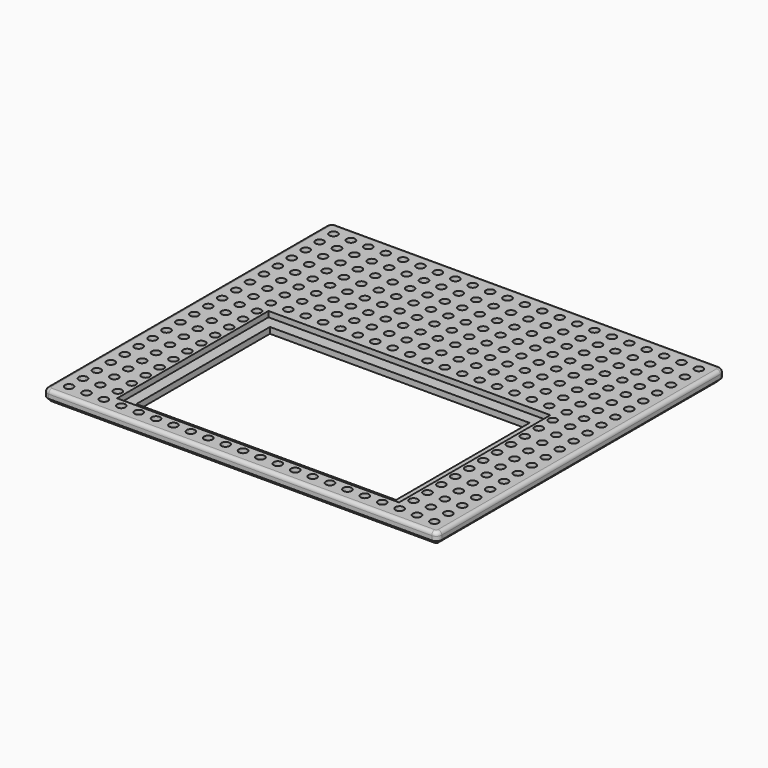
from build123d import *

# Parameters (mm, degrees)
F0_W      = 53.975
F0_H      = 49.2125
F1_DEPTH  = 1.5875
F2_R      = 0.5715
F3_DEPTH  = 0.762
F4_R      = 0.762
F5_R      = 0.508
F6_SIZE   = 0.508
F7_W      = 38.608
F7_H      = 25.908
F8_DEPTH  = 0.762
F9_W      = 35.56
F9_H      = 22.86
F10_DEPTH = 25.4


with BuildPart() as f1:
    # F0 (on Top) → F1 (new body)
    with BuildSketch(Plane.XY):
        with Locations((0, 8.73125)):
            Rectangle(F0_W, F0_H)
    extrude(amount=F1_DEPTH)

    # F2 (on face) → F3 (cut)
    with BuildSketch(Plane.XY.offset(1.5875)):
        with Locations((-25.01646, -13.9065)):
            Circle(F2_R)
        with Locations((-25.01646, -11.52398)):
            Circle(F2_R)
        with Locations((-25.01646, -9.14146)):
            Circle(F2_R)
        with Locations((-25.01646, -6.75894)):
            Circle(F2_R)
        with Locations((-25.01646, -4.37642)):
            Circle(F2_R)
        with Locations((-25.01646, -1.9939)):
            Circle(F2_R)
        with Locations((-25.01646, 0.38862)):
            Circle(F2_R)
        with Locations((-25.01646, 2.77114)):
            Circle(F2_R)
        with Locations((-25.01646, 5.15366)):
            Circle(F2_R)
        with Locations((-25.01646, 7.53618)):
            Circle(F2_R)
        with Locations((-25.01646, 9.9187)):
            Circle(F2_R)
        with Locations((-25.01646, 12.30122)):
            Circle(F2_R)
        with Locations((-22.63394, -13.9065)):
            Circle(F2_R)
        with Locations((-22.63394, -11.52398)):
            Circle(F2_R)
        with Locations((-22.63394, -9.14146)):
            Circle(F2_R)
        with Locations((-22.63394, -6.75894)):
            Circle(F2_R)
        with Locations((-22.63394, -4.37642)):
            Circle(F2_R)
        with Locations((-22.63394, -1.9939)):
            Circle(F2_R)
        with Locations((-22.63394, 0.38862)):
            Circle(F2_R)
        with Locations((-22.63394, 2.77114)):
            Circle(F2_R)
        with Locations((-22.63394, 5.15366)):
            Circle(F2_R)
        with Locations((-22.63394, 7.53618)):
            Circle(F2_R)
        with Locations((-22.63394, 9.9187)):
            Circle(F2_R)
        with Locations((-22.63394, 12.30122)):
            Circle(F2_R)
        with Locations((-20.25142, -13.9065)):
            Circle(F2_R)
        with Locations((-20.25142, -11.52398)):
            Circle(F2_R)
        with Locations((-20.25142, -9.14146)):
            Circle(F2_R)
        with Locations((-20.25142, -6.75894)):
            Circle(F2_R)
        with Locations((-20.25142, -4.37642)):
            Circle(F2_R)
        with Locations((-20.25142, -1.9939)):
            Circle(F2_R)
        with Locations((-20.25142, 0.38862)):
            Circle(F2_R)
        with Locations((-20.25142, 2.77114)):
            Circle(F2_R)
        with Locations((-20.25142, 5.15366)):
            Circle(F2_R)
        with Locations((-20.25142, 7.53618)):
            Circle(F2_R)
        with Locations((-20.25142, 9.9187)):
            Circle(F2_R)
        with Locations((-20.25142, 12.30122)):
            Circle(F2_R)
        with Locations((-17.8689, -13.9065)):
            Circle(F2_R)
        with Locations((-17.8689, -11.52398)):
            Circle(F2_R)
        with Locations((-17.8689, -9.14146)):
            Circle(F2_R)
        with Locations((-17.8689, -6.75894)):
            Circle(F2_R)
        with Locations((-17.8689, -4.37642)):
            Circle(F2_R)
        with Locations((-17.8689, -1.9939)):
            Circle(F2_R)
        with Locations((-17.8689, 0.38862)):
            Circle(F2_R)
        with Locations((-17.8689, 2.77114)):
            Circle(F2_R)
        with Locations((-17.8689, 5.15366)):
            Circle(F2_R)
        with Locations((-17.8689, 7.53618)):
            Circle(F2_R)
        with Locations((-17.8689, 9.9187)):
            Circle(F2_R)
        with Locations((-17.8689, 12.30122)):
            Circle(F2_R)
        with Locations((-15.48638, -13.9065)):
            Circle(F2_R)
        with Locations((-15.48638, -11.52398)):
            Circle(F2_R)
        with Locations((-15.48638, -9.14146)):
            Circle(F2_R)
        with Locations((-15.48638, -6.75894)):
            Circle(F2_R)
        with Locations((-15.48638, -4.37642)):
            Circle(F2_R)
        with Locations((-15.48638, -1.9939)):
            Circle(F2_R)
        with Locations((-15.48638, 0.38862)):
            Circle(F2_R)
        with Locations((-15.48638, 2.77114)):
            Circle(F2_R)
        with Locations((-15.48638, 5.15366)):
            Circle(F2_R)
        with Locations((-15.48638, 7.53618)):
            Circle(F2_R)
        with Locations((-15.48638, 9.9187)):
            Circle(F2_R)
        with Locations((-15.48638, 12.30122)):
            Circle(F2_R)
        with Locations((-13.10386, -13.9065)):
            Circle(F2_R)
        with Locations((-13.10386, -11.52398)):
            Circle(F2_R)
        with Locations((-13.10386, -9.14146)):
            Circle(F2_R)
        with Locations((-13.10386, -6.75894)):
            Circle(F2_R)
        with Locations((-13.10386, -4.37642)):
            Circle(F2_R)
        with Locations((-13.10386, -1.9939)):
            Circle(F2_R)
        with Locations((-13.10386, 0.38862)):
            Circle(F2_R)
        with Locations((-13.10386, 2.77114)):
            Circle(F2_R)
        with Locations((-13.10386, 5.15366)):
            Circle(F2_R)
        with Locations((-13.10386, 7.53618)):
            Circle(F2_R)
        with Locations((-13.10386, 9.9187)):
            Circle(F2_R)
        with Locations((-13.10386, 12.30122)):
            Circle(F2_R)
        with Locations((-10.72134, -13.9065)):
            Circle(F2_R)
        with Locations((-10.72134, -11.52398)):
            Circle(F2_R)
        with Locations((-10.72134, -9.14146)):
            Circle(F2_R)
        with Locations((-10.72134, -6.75894)):
            Circle(F2_R)
        with Locations((-10.72134, -4.37642)):
            Circle(F2_R)
        with Locations((-10.72134, -1.9939)):
            Circle(F2_R)
        with Locations((-10.72134, 0.38862)):
            Circle(F2_R)
        with Locations((-10.72134, 2.77114)):
            Circle(F2_R)
        with Locations((-10.72134, 5.15366)):
            Circle(F2_R)
        with Locations((-10.72134, 7.53618)):
            Circle(F2_R)
        with Locations((-10.72134, 9.9187)):
            Circle(F2_R)
        with Locations((-10.72134, 12.30122)):
            Circle(F2_R)
        with Locations((-8.33882, -13.9065)):
            Circle(F2_R)
        with Locations((-8.33882, -11.52398)):
            Circle(F2_R)
        with Locations((-8.33882, -9.14146)):
            Circle(F2_R)
        with Locations((-8.33882, -6.75894)):
            Circle(F2_R)
        with Locations((-8.33882, -4.37642)):
            Circle(F2_R)
        with Locations((-8.33882, -1.9939)):
            Circle(F2_R)
        with Locations((-8.33882, 0.38862)):
            Circle(F2_R)
        with Locations((-8.33882, 2.77114)):
            Circle(F2_R)
        with Locations((-8.33882, 5.15366)):
            Circle(F2_R)
        with Locations((-8.33882, 7.53618)):
            Circle(F2_R)
        with Locations((-8.33882, 9.9187)):
            Circle(F2_R)
        with Locations((-8.33882, 12.30122)):
            Circle(F2_R)
        with Locations((-5.9563, -13.9065)):
            Circle(F2_R)
        with Locations((-5.9563, -11.52398)):
            Circle(F2_R)
        with Locations((-5.9563, -9.14146)):
            Circle(F2_R)
        with Locations((-5.9563, -6.75894)):
            Circle(F2_R)
        with Locations((-5.9563, -4.37642)):
            Circle(F2_R)
        with Locations((-5.9563, -1.9939)):
            Circle(F2_R)
        with Locations((-5.9563, 0.38862)):
            Circle(F2_R)
        with Locations((-5.9563, 2.77114)):
            Circle(F2_R)
        with Locations((-5.9563, 5.15366)):
            Circle(F2_R)
        with Locations((-5.9563, 7.53618)):
            Circle(F2_R)
        with Locations((-5.9563, 9.9187)):
            Circle(F2_R)
        with Locations((-5.9563, 12.30122)):
            Circle(F2_R)
        with Locations((-3.57378, -13.9065)):
            Circle(F2_R)
        with Locations((-3.57378, -11.52398)):
            Circle(F2_R)
        with Locations((-3.57378, -9.14146)):
            Circle(F2_R)
        with Locations((-3.57378, -6.75894)):
            Circle(F2_R)
        with Locations((-3.57378, -4.37642)):
            Circle(F2_R)
        with Locations((-3.57378, -1.9939)):
            Circle(F2_R)
        with Locations((-3.57378, 0.38862)):
            Circle(F2_R)
        with Locations((-3.57378, 2.77114)):
            Circle(F2_R)
        with Locations((-3.57378, 5.15366)):
            Circle(F2_R)
        with Locations((-3.57378, 7.53618)):
            Circle(F2_R)
        with Locations((-3.57378, 9.9187)):
            Circle(F2_R)
        with Locations((-3.57378, 12.30122)):
            Circle(F2_R)
        with Locations((-1.19126, -13.9065)):
            Circle(F2_R)
        with Locations((-1.19126, -11.52398)):
            Circle(F2_R)
        with Locations((-1.19126, -9.14146)):
            Circle(F2_R)
        with Locations((-1.19126, -6.75894)):
            Circle(F2_R)
        with Locations((-1.19126, -4.37642)):
            Circle(F2_R)
        with Locations((-1.19126, -1.9939)):
            Circle(F2_R)
        with Locations((-1.19126, 0.38862)):
            Circle(F2_R)
        with Locations((-1.19126, 2.77114)):
            Circle(F2_R)
        with Locations((-1.19126, 5.15366)):
            Circle(F2_R)
        with Locations((-1.19126, 7.53618)):
            Circle(F2_R)
        with Locations((-1.19126, 9.9187)):
            Circle(F2_R)
        with Locations((-1.19126, 12.30122)):
            Circle(F2_R)
        with Locations((1.19126, -13.9065)):
            Circle(F2_R)
        with Locations((1.19126, -11.52398)):
            Circle(F2_R)
        with Locations((1.19126, -9.14146)):
            Circle(F2_R)
        with Locations((1.19126, -6.75894)):
            Circle(F2_R)
        with Locations((1.19126, -4.37642)):
            Circle(F2_R)
        with Locations((1.19126, -1.9939)):
            Circle(F2_R)
        with Locations((1.19126, 0.38862)):
            Circle(F2_R)
        with Locations((1.19126, 2.77114)):
            Circle(F2_R)
        with Locations((1.19126, 5.15366)):
            Circle(F2_R)
        with Locations((1.19126, 7.53618)):
            Circle(F2_R)
        with Locations((1.19126, 9.9187)):
            Circle(F2_R)
        with Locations((1.19126, 12.30122)):
            Circle(F2_R)
        with Locations((3.57378, -13.9065)):
            Circle(F2_R)
        with Locations((3.57378, -11.52398)):
            Circle(F2_R)
        with Locations((3.57378, -9.14146)):
            Circle(F2_R)
        with Locations((3.57378, -6.75894)):
            Circle(F2_R)
        with Locations((3.57378, -4.37642)):
            Circle(F2_R)
        with Locations((3.57378, -1.9939)):
            Circle(F2_R)
        with Locations((3.57378, 0.38862)):
            Circle(F2_R)
        with Locations((3.57378, 2.77114)):
            Circle(F2_R)
        with Locations((3.57378, 5.15366)):
            Circle(F2_R)
        with Locations((3.57378, 7.53618)):
            Circle(F2_R)
        with Locations((3.57378, 9.9187)):
            Circle(F2_R)
        with Locations((3.57378, 12.30122)):
            Circle(F2_R)
        with Locations((5.9563, -13.9065)):
            Circle(F2_R)
        with Locations((5.9563, -11.52398)):
            Circle(F2_R)
        with Locations((5.9563, -9.14146)):
            Circle(F2_R)
        with Locations((5.9563, -6.75894)):
            Circle(F2_R)
        with Locations((5.9563, -4.37642)):
            Circle(F2_R)
        with Locations((5.9563, -1.9939)):
            Circle(F2_R)
        with Locations((5.9563, 0.38862)):
            Circle(F2_R)
        with Locations((5.9563, 2.77114)):
            Circle(F2_R)
        with Locations((5.9563, 5.15366)):
            Circle(F2_R)
        with Locations((5.9563, 7.53618)):
            Circle(F2_R)
        with Locations((5.9563, 9.9187)):
            Circle(F2_R)
        with Locations((5.9563, 12.30122)):
            Circle(F2_R)
        with Locations((8.33882, -13.9065)):
            Circle(F2_R)
        with Locations((8.33882, -11.52398)):
            Circle(F2_R)
        with Locations((8.33882, -9.14146)):
            Circle(F2_R)
        with Locations((8.33882, -6.75894)):
            Circle(F2_R)
        with Locations((8.33882, -4.37642)):
            Circle(F2_R)
        with Locations((8.33882, -1.9939)):
            Circle(F2_R)
        with Locations((8.33882, 0.38862)):
            Circle(F2_R)
        with Locations((8.33882, 2.77114)):
            Circle(F2_R)
        with Locations((8.33882, 5.15366)):
            Circle(F2_R)
        with Locations((8.33882, 7.53618)):
            Circle(F2_R)
        with Locations((8.33882, 9.9187)):
            Circle(F2_R)
        with Locations((8.33882, 12.30122)):
            Circle(F2_R)
        with Locations((10.72134, -13.9065)):
            Circle(F2_R)
        with Locations((10.72134, -11.52398)):
            Circle(F2_R)
        with Locations((10.72134, -9.14146)):
            Circle(F2_R)
        with Locations((10.72134, -6.75894)):
            Circle(F2_R)
        with Locations((10.72134, -4.37642)):
            Circle(F2_R)
        with Locations((10.72134, -1.9939)):
            Circle(F2_R)
        with Locations((10.72134, 0.38862)):
            Circle(F2_R)
        with Locations((10.72134, 2.77114)):
            Circle(F2_R)
        with Locations((10.72134, 5.15366)):
            Circle(F2_R)
        with Locations((10.72134, 7.53618)):
            Circle(F2_R)
        with Locations((10.72134, 9.9187)):
            Circle(F2_R)
        with Locations((10.72134, 12.30122)):
            Circle(F2_R)
        with Locations((13.10386, -13.9065)):
            Circle(F2_R)
        with Locations((13.10386, -11.52398)):
            Circle(F2_R)
        with Locations((13.10386, -9.14146)):
            Circle(F2_R)
        with Locations((13.10386, -6.75894)):
            Circle(F2_R)
        with Locations((13.10386, -4.37642)):
            Circle(F2_R)
        with Locations((13.10386, -1.9939)):
            Circle(F2_R)
        with Locations((13.10386, 0.38862)):
            Circle(F2_R)
        with Locations((13.10386, 2.77114)):
            Circle(F2_R)
        with Locations((13.10386, 5.15366)):
            Circle(F2_R)
        with Locations((13.10386, 7.53618)):
            Circle(F2_R)
        with Locations((13.10386, 9.9187)):
            Circle(F2_R)
        with Locations((13.10386, 12.30122)):
            Circle(F2_R)
        with Locations((15.48638, -13.9065)):
            Circle(F2_R)
        with Locations((15.48638, -11.52398)):
            Circle(F2_R)
        with Locations((15.48638, -9.14146)):
            Circle(F2_R)
        with Locations((15.48638, -6.75894)):
            Circle(F2_R)
        with Locations((15.48638, -4.37642)):
            Circle(F2_R)
        with Locations((15.48638, -1.9939)):
            Circle(F2_R)
        with Locations((15.48638, 0.38862)):
            Circle(F2_R)
        with Locations((15.48638, 2.77114)):
            Circle(F2_R)
        with Locations((15.48638, 5.15366)):
            Circle(F2_R)
        with Locations((15.48638, 7.53618)):
            Circle(F2_R)
        with Locations((15.48638, 9.9187)):
            Circle(F2_R)
        with Locations((15.48638, 12.30122)):
            Circle(F2_R)
        with Locations((17.8689, -13.9065)):
            Circle(F2_R)
        with Locations((17.8689, -11.52398)):
            Circle(F2_R)
        with Locations((17.8689, -9.14146)):
            Circle(F2_R)
        with Locations((17.8689, -6.75894)):
            Circle(F2_R)
        with Locations((17.8689, -4.37642)):
            Circle(F2_R)
        with Locations((17.8689, -1.9939)):
            Circle(F2_R)
        with Locations((17.8689, 0.38862)):
            Circle(F2_R)
        with Locations((17.8689, 2.77114)):
            Circle(F2_R)
        with Locations((17.8689, 5.15366)):
            Circle(F2_R)
        with Locations((17.8689, 7.53618)):
            Circle(F2_R)
        with Locations((17.8689, 9.9187)):
            Circle(F2_R)
        with Locations((17.8689, 12.30122)):
            Circle(F2_R)
        with Locations((20.25142, -13.9065)):
            Circle(F2_R)
        with Locations((20.25142, -11.52398)):
            Circle(F2_R)
        with Locations((20.25142, -9.14146)):
            Circle(F2_R)
        with Locations((20.25142, -6.75894)):
            Circle(F2_R)
        with Locations((20.25142, -4.37642)):
            Circle(F2_R)
        with Locations((20.25142, -1.9939)):
            Circle(F2_R)
        with Locations((20.25142, 0.38862)):
            Circle(F2_R)
        with Locations((20.25142, 2.77114)):
            Circle(F2_R)
        with Locations((20.25142, 5.15366)):
            Circle(F2_R)
        with Locations((20.25142, 7.53618)):
            Circle(F2_R)
        with Locations((20.25142, 9.9187)):
            Circle(F2_R)
        with Locations((20.25142, 12.30122)):
            Circle(F2_R)
        with Locations((22.63394, -13.9065)):
            Circle(F2_R)
        with Locations((22.63394, -11.52398)):
            Circle(F2_R)
        with Locations((22.63394, -9.14146)):
            Circle(F2_R)
        with Locations((22.63394, -6.75894)):
            Circle(F2_R)
        with Locations((22.63394, -4.37642)):
            Circle(F2_R)
        with Locations((22.63394, -1.9939)):
            Circle(F2_R)
        with Locations((22.63394, 0.38862)):
            Circle(F2_R)
        with Locations((22.63394, 2.77114)):
            Circle(F2_R)
        with Locations((22.63394, 5.15366)):
            Circle(F2_R)
        with Locations((22.63394, 7.53618)):
            Circle(F2_R)
        with Locations((22.63394, 9.9187)):
            Circle(F2_R)
        with Locations((22.63394, 12.30122)):
            Circle(F2_R)
        with Locations((25.01646, -13.9065)):
            Circle(F2_R)
        with Locations((25.01646, -11.52398)):
            Circle(F2_R)
        with Locations((25.01646, -9.14146)):
            Circle(F2_R)
        with Locations((25.01646, -6.75894)):
            Circle(F2_R)
        with Locations((25.01646, -4.37642)):
            Circle(F2_R)
        with Locations((25.01646, -1.9939)):
            Circle(F2_R)
        with Locations((25.01646, 0.38862)):
            Circle(F2_R)
        with Locations((25.01646, 2.77114)):
            Circle(F2_R)
        with Locations((25.01646, 5.15366)):
            Circle(F2_R)
        with Locations((25.01646, 7.53618)):
            Circle(F2_R)
        with Locations((25.01646, 9.9187)):
            Circle(F2_R)
        with Locations((25.01646, 12.30122)):
            Circle(F2_R)
        with Locations((-25.01646, 14.68374)):
            Circle(F2_R)
        with Locations((-25.01646, 17.06626)):
            Circle(F2_R)
        with Locations((-25.01646, 19.44878)):
            Circle(F2_R)
        with Locations((-25.01646, 21.8313)):
            Circle(F2_R)
        with Locations((-25.01646, 24.21382)):
            Circle(F2_R)
        with Locations((-25.01646, 26.59634)):
            Circle(F2_R)
        with Locations((-22.63394, 14.68374)):
            Circle(F2_R)
        with Locations((-22.63394, 17.06626)):
            Circle(F2_R)
        with Locations((-22.63394, 19.44878)):
            Circle(F2_R)
        with Locations((-22.63394, 21.8313)):
            Circle(F2_R)
        with Locations((-22.63394, 24.21382)):
            Circle(F2_R)
        with Locations((-22.63394, 26.59634)):
            Circle(F2_R)
        with Locations((-20.25142, 14.68374)):
            Circle(F2_R)
        with Locations((-20.25142, 17.06626)):
            Circle(F2_R)
        with Locations((-20.25142, 19.44878)):
            Circle(F2_R)
        with Locations((-20.25142, 21.8313)):
            Circle(F2_R)
        with Locations((-20.25142, 24.21382)):
            Circle(F2_R)
        with Locations((-20.25142, 26.59634)):
            Circle(F2_R)
        with Locations((-17.8689, 14.68374)):
            Circle(F2_R)
        with Locations((-17.8689, 17.06626)):
            Circle(F2_R)
        with Locations((-17.8689, 19.44878)):
            Circle(F2_R)
        with Locations((-17.8689, 21.8313)):
            Circle(F2_R)
        with Locations((-17.8689, 24.21382)):
            Circle(F2_R)
        with Locations((-17.8689, 26.59634)):
            Circle(F2_R)
        with Locations((-15.48638, 14.68374)):
            Circle(F2_R)
        with Locations((-15.48638, 17.06626)):
            Circle(F2_R)
        with Locations((-15.48638, 19.44878)):
            Circle(F2_R)
        with Locations((-15.48638, 21.8313)):
            Circle(F2_R)
        with Locations((-15.48638, 24.21382)):
            Circle(F2_R)
        with Locations((-15.48638, 26.59634)):
            Circle(F2_R)
        with Locations((-13.10386, 14.68374)):
            Circle(F2_R)
        with Locations((-13.10386, 17.06626)):
            Circle(F2_R)
        with Locations((-13.10386, 19.44878)):
            Circle(F2_R)
        with Locations((-13.10386, 21.8313)):
            Circle(F2_R)
        with Locations((-13.10386, 24.21382)):
            Circle(F2_R)
        with Locations((-13.10386, 26.59634)):
            Circle(F2_R)
        with Locations((-10.72134, 14.68374)):
            Circle(F2_R)
        with Locations((-10.72134, 17.06626)):
            Circle(F2_R)
        with Locations((-10.72134, 19.44878)):
            Circle(F2_R)
        with Locations((-10.72134, 21.8313)):
            Circle(F2_R)
        with Locations((-10.72134, 24.21382)):
            Circle(F2_R)
        with Locations((-10.72134, 26.59634)):
            Circle(F2_R)
        with Locations((-8.33882, 14.68374)):
            Circle(F2_R)
        with Locations((-8.33882, 17.06626)):
            Circle(F2_R)
        with Locations((-8.33882, 19.44878)):
            Circle(F2_R)
        with Locations((-8.33882, 21.8313)):
            Circle(F2_R)
        with Locations((-8.33882, 24.21382)):
            Circle(F2_R)
        with Locations((-8.33882, 26.59634)):
            Circle(F2_R)
        with Locations((-5.9563, 14.68374)):
            Circle(F2_R)
        with Locations((-5.9563, 17.06626)):
            Circle(F2_R)
        with Locations((-5.9563, 19.44878)):
            Circle(F2_R)
        with Locations((-5.9563, 21.8313)):
            Circle(F2_R)
        with Locations((-5.9563, 24.21382)):
            Circle(F2_R)
        with Locations((-5.9563, 26.59634)):
            Circle(F2_R)
        with Locations((-3.57378, 14.68374)):
            Circle(F2_R)
        with Locations((-3.57378, 17.06626)):
            Circle(F2_R)
        with Locations((-3.57378, 19.44878)):
            Circle(F2_R)
        with Locations((-3.57378, 21.8313)):
            Circle(F2_R)
        with Locations((-3.57378, 24.21382)):
            Circle(F2_R)
        with Locations((-3.57378, 26.59634)):
            Circle(F2_R)
        with Locations((-1.19126, 14.68374)):
            Circle(F2_R)
        with Locations((-1.19126, 17.06626)):
            Circle(F2_R)
        with Locations((-1.19126, 19.44878)):
            Circle(F2_R)
        with Locations((-1.19126, 21.8313)):
            Circle(F2_R)
        with Locations((-1.19126, 24.21382)):
            Circle(F2_R)
        with Locations((-1.19126, 26.59634)):
            Circle(F2_R)
        with Locations((1.19126, 14.68374)):
            Circle(F2_R)
        with Locations((1.19126, 17.06626)):
            Circle(F2_R)
        with Locations((1.19126, 19.44878)):
            Circle(F2_R)
        with Locations((1.19126, 21.8313)):
            Circle(F2_R)
        with Locations((1.19126, 24.21382)):
            Circle(F2_R)
        with Locations((1.19126, 26.59634)):
            Circle(F2_R)
        with Locations((3.57378, 14.68374)):
            Circle(F2_R)
        with Locations((3.57378, 17.06626)):
            Circle(F2_R)
        with Locations((3.57378, 19.44878)):
            Circle(F2_R)
        with Locations((3.57378, 21.8313)):
            Circle(F2_R)
        with Locations((3.57378, 24.21382)):
            Circle(F2_R)
        with Locations((3.57378, 26.59634)):
            Circle(F2_R)
        with Locations((5.9563, 14.68374)):
            Circle(F2_R)
        with Locations((5.9563, 17.06626)):
            Circle(F2_R)
        with Locations((5.9563, 19.44878)):
            Circle(F2_R)
        with Locations((5.9563, 21.8313)):
            Circle(F2_R)
        with Locations((5.9563, 24.21382)):
            Circle(F2_R)
        with Locations((5.9563, 26.59634)):
            Circle(F2_R)
        with Locations((8.33882, 14.68374)):
            Circle(F2_R)
        with Locations((8.33882, 17.06626)):
            Circle(F2_R)
        with Locations((8.33882, 19.44878)):
            Circle(F2_R)
        with Locations((8.33882, 21.8313)):
            Circle(F2_R)
        with Locations((8.33882, 24.21382)):
            Circle(F2_R)
        with Locations((8.33882, 26.59634)):
            Circle(F2_R)
        with Locations((10.72134, 14.68374)):
            Circle(F2_R)
        with Locations((10.72134, 17.06626)):
            Circle(F2_R)
        with Locations((10.72134, 19.44878)):
            Circle(F2_R)
        with Locations((10.72134, 21.8313)):
            Circle(F2_R)
        with Locations((10.72134, 24.21382)):
            Circle(F2_R)
        with Locations((10.72134, 26.59634)):
            Circle(F2_R)
        with Locations((13.10386, 14.68374)):
            Circle(F2_R)
        with Locations((13.10386, 17.06626)):
            Circle(F2_R)
        with Locations((13.10386, 19.44878)):
            Circle(F2_R)
        with Locations((13.10386, 21.8313)):
            Circle(F2_R)
        with Locations((13.10386, 24.21382)):
            Circle(F2_R)
        with Locations((13.10386, 26.59634)):
            Circle(F2_R)
        with Locations((15.48638, 14.68374)):
            Circle(F2_R)
        with Locations((15.48638, 17.06626)):
            Circle(F2_R)
        with Locations((15.48638, 19.44878)):
            Circle(F2_R)
        with Locations((15.48638, 21.8313)):
            Circle(F2_R)
        with Locations((15.48638, 24.21382)):
            Circle(F2_R)
        with Locations((15.48638, 26.59634)):
            Circle(F2_R)
        with Locations((17.8689, 14.68374)):
            Circle(F2_R)
        with Locations((17.8689, 17.06626)):
            Circle(F2_R)
        with Locations((17.8689, 19.44878)):
            Circle(F2_R)
        with Locations((17.8689, 21.8313)):
            Circle(F2_R)
        with Locations((17.8689, 24.21382)):
            Circle(F2_R)
        with Locations((17.8689, 26.59634)):
            Circle(F2_R)
        with Locations((20.25142, 14.68374)):
            Circle(F2_R)
        with Locations((20.25142, 17.06626)):
            Circle(F2_R)
        with Locations((20.25142, 19.44878)):
            Circle(F2_R)
        with Locations((20.25142, 21.8313)):
            Circle(F2_R)
        with Locations((20.25142, 24.21382)):
            Circle(F2_R)
        with Locations((20.25142, 26.59634)):
            Circle(F2_R)
        with Locations((22.63394, 14.68374)):
            Circle(F2_R)
        with Locations((22.63394, 17.06626)):
            Circle(F2_R)
        with Locations((22.63394, 19.44878)):
            Circle(F2_R)
        with Locations((22.63394, 21.8313)):
            Circle(F2_R)
        with Locations((22.63394, 24.21382)):
            Circle(F2_R)
        with Locations((22.63394, 26.59634)):
            Circle(F2_R)
        with Locations((25.01646, 14.68374)):
            Circle(F2_R)
        with Locations((25.01646, 17.06626)):
            Circle(F2_R)
        with Locations((25.01646, 19.44878)):
            Circle(F2_R)
        with Locations((25.01646, 21.8313)):
            Circle(F2_R)
        with Locations((25.01646, 24.21382)):
            Circle(F2_R)
        with Locations((25.01646, 26.59634)):
            Circle(F2_R)
        with Locations((-25.01646, 28.97886)):
            Circle(F2_R)
        with Locations((-22.63394, 28.97886)):
            Circle(F2_R)
        with Locations((-20.25142, 28.97886)):
            Circle(F2_R)
        with Locations((-17.8689, 28.97886)):
            Circle(F2_R)
        with Locations((-15.48638, 28.97886)):
            Circle(F2_R)
        with Locations((-13.10386, 28.97886)):
            Circle(F2_R)
        with Locations((-10.72134, 28.97886)):
            Circle(F2_R)
        with Locations((-8.33882, 28.97886)):
            Circle(F2_R)
        with Locations((-5.9563, 28.97886)):
            Circle(F2_R)
        with Locations((-3.57378, 28.97886)):
            Circle(F2_R)
        with Locations((-1.19126, 28.97886)):
            Circle(F2_R)
        with Locations((1.19126, 28.97886)):
            Circle(F2_R)
        with Locations((3.57378, 28.97886)):
            Circle(F2_R)
        with Locations((5.9563, 28.97886)):
            Circle(F2_R)
        with Locations((8.33882, 28.97886)):
            Circle(F2_R)
        with Locations((10.72134, 28.97886)):
            Circle(F2_R)
        with Locations((13.10386, 28.97886)):
            Circle(F2_R)
        with Locations((15.48638, 28.97886)):
            Circle(F2_R)
        with Locations((17.8689, 28.97886)):
            Circle(F2_R)
        with Locations((20.25142, 28.97886)):
            Circle(F2_R)
        with Locations((22.63394, 28.97886)):
            Circle(F2_R)
        with Locations((25.01646, 28.97886)):
            Circle(F2_R)
        with Locations((-25.01646, 31.36138)):
            Circle(F2_R)
        with Locations((-22.63394, 31.36138)):
            Circle(F2_R)
        with Locations((-20.25142, 31.36138)):
            Circle(F2_R)
        with Locations((-17.8689, 31.36138)):
            Circle(F2_R)
        with Locations((-15.48638, 31.36138)):
            Circle(F2_R)
        with Locations((-13.10386, 31.36138)):
            Circle(F2_R)
        with Locations((-10.72134, 31.36138)):
            Circle(F2_R)
        with Locations((-8.33882, 31.36138)):
            Circle(F2_R)
        with Locations((-5.9563, 31.36138)):
            Circle(F2_R)
        with Locations((-3.57378, 31.36138)):
            Circle(F2_R)
        with Locations((-1.19126, 31.36138)):
            Circle(F2_R)
        with Locations((1.19126, 31.36138)):
            Circle(F2_R)
        with Locations((3.57378, 31.36138)):
            Circle(F2_R)
        with Locations((5.9563, 31.36138)):
            Circle(F2_R)
        with Locations((8.33882, 31.36138)):
            Circle(F2_R)
        with Locations((10.72134, 31.36138)):
            Circle(F2_R)
        with Locations((13.10386, 31.36138)):
            Circle(F2_R)
        with Locations((15.48638, 31.36138)):
            Circle(F2_R)
        with Locations((17.8689, 31.36138)):
            Circle(F2_R)
        with Locations((20.25142, 31.36138)):
            Circle(F2_R)
        with Locations((22.63394, 31.36138)):
            Circle(F2_R)
        with Locations((25.01646, 31.36138)):
            Circle(F2_R)
    extrude(amount=-F3_DEPTH, mode=Mode.SUBTRACT)

    # F4
    f4_edges = [f1.edges().sort_by_distance(p)[0] for p in [
        (-26.9875, -15.875, 0.79375),
        (-26.9875, 33.3375, 0.79375),
        (26.9875, 33.3375, 0.79375),
        (26.9875, -15.875, 0.79375),
    ]]
    fillet(f4_edges, radius=F4_R)

    # F5
    f5_edges = [f1.edges().sort_by_distance(p)[0] for p in [
        (26.9875, 8.73125, 1.5875),
    ]]
    fillet(f5_edges, radius=F5_R)

    # F6
    f6_edges = [f1.edges().sort_by_distance(p)[0] for p in [
        (26.9875, 8.73125, 0),
    ]]
    chamfer(f6_edges, length=F6_SIZE)

    # F7 (on face) → F8 (cut)
    with BuildSketch(Plane.XY.offset(1.5875)):
        with Locations((0, 0.127)):
            Rectangle(F7_W, F7_H)
    extrude(amount=-F8_DEPTH, mode=Mode.SUBTRACT)

    # F9 (on face) → F10 (cut)
    with BuildSketch(Plane.XY.offset(0.8255)):
        Rectangle(F9_W, F9_H)
    extrude(amount=-F10_DEPTH, mode=Mode.SUBTRACT)


solid = f1.part
